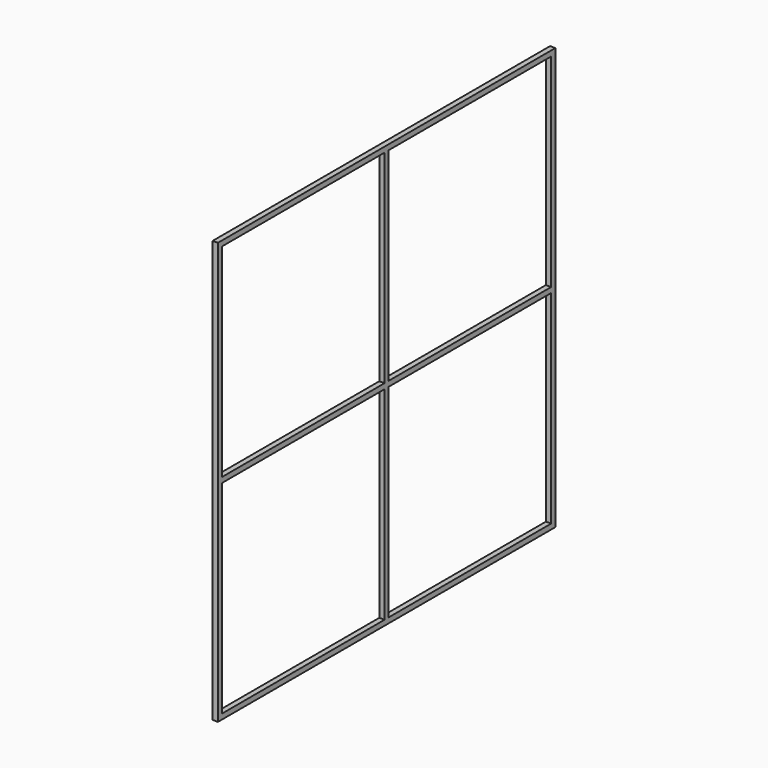
from build123d import *

# Parameters (mm, degrees)
F0_W     = 962.5
F0_H     = 25
F1_DEPTH = 25


with BuildPart() as f1:
    # F0 (on Right) → F1 (new body)
    with BuildSketch(Plane.YZ):
        Polygon((-1931.056628, 1956.508978), (-1956.056628, 1981.508978), (-1956.056628, -18.491022), (-1931.056628, 6.508978), (-1931.056628, 969.008978), (-1931.056628, 994.008978), align=None)
        Polygon((43.943372, 1981.508978), (-1956.056628, 1981.508978), (-1931.056628, 1956.508978), (-968.556628, 1956.508978), (-943.556628, 1956.508978), (18.943372, 1956.508978), align=None)
        Polygon((43.943372, -18.491022), (43.943372, 1981.508978), (18.943372, 1956.508978), (18.943372, 994.008978), (18.943372, 969.008978), (18.943372, 6.508978), align=None)
        Polygon((-1931.056628, 6.508978), (-1956.056628, -18.491022), (43.943372, -18.491022), (18.943372, 6.508978), (-943.556628, 6.508978), (-968.556628, 6.508978), align=None)
        with Locations((-1449.806628, 981.508978)):
            Rectangle(F0_W, F0_H)
        Polygon((-943.556628, 1956.508978), (-968.556628, 1956.508978), (-968.556628, 994.008978), (-968.556628, 969.008978), (-968.556628, 6.508978), (-943.556628, 6.508978), (-943.556628, 969.008978), (-943.556628, 994.008978), align=None)
        with Locations((-462.306628, 981.508978)):
            Rectangle(F0_W, F0_H)
    extrude(amount=F1_DEPTH)


solid = f1.part
